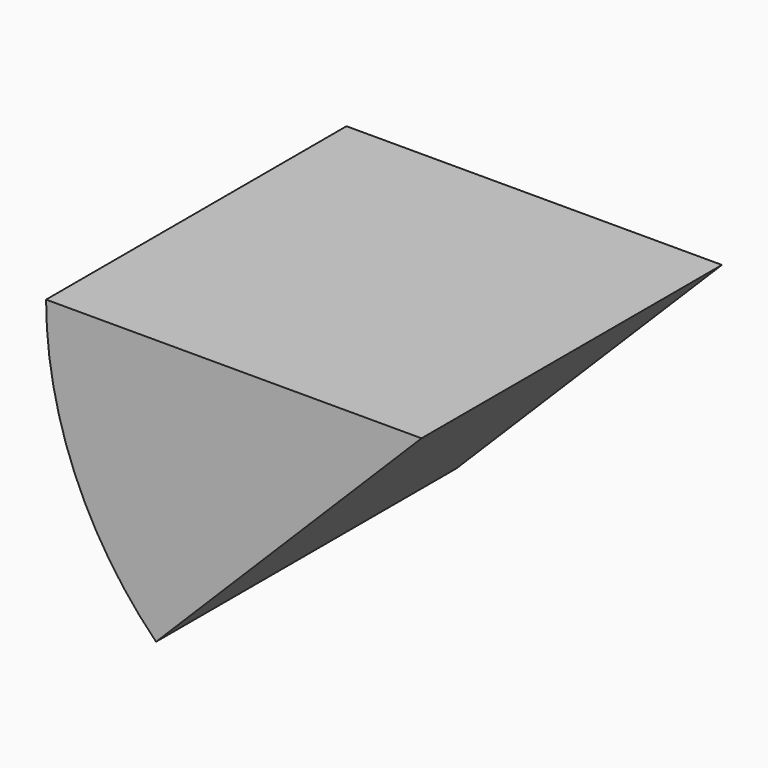
from build123d import *

# Parameters (mm, degrees)
F0_W     = 10
F0_H     = 10
F1_ANGLE = 45


with BuildPart() as f1:
    # F0 (on Top) → F1 (revolve)
    with BuildSketch(Plane.XY):
        Rectangle(F0_W, F0_H)
    revolve(axis=Axis((5, 0, 0), (0, -1, 0)), revolution_arc=F1_ANGLE)


solid = f1.part
